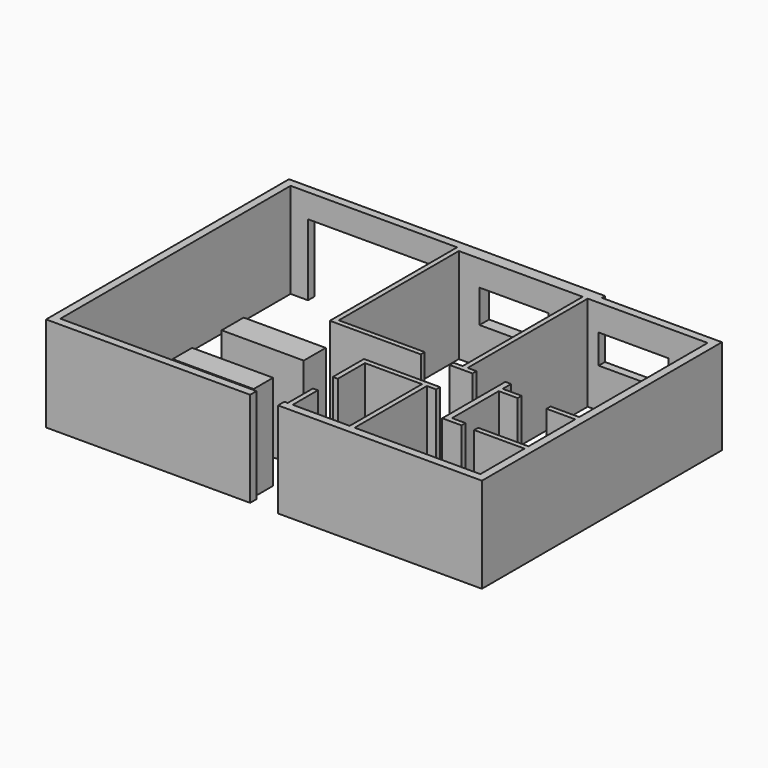
from build123d import *

# Parameters (mm, degrees)
F0_W     = 127
F0_H     = 805.6468963623
F0_W_2   = 735.2284367638
F0_H_2   = 127
F0_W_3   = 1288.3506079674
F1_DEPTH = 2438.4
F2_W     = 3378.2
F2_H     = 1828.8
F3_DEPTH = 203.2
F5_W     = 1791.1667823792
F5_H     = 748.4134435654
F4_W     = 1764.02759552
F4_H     = 844.3640470505
F6_DEPTH = 306.7898195038
F7_W     = 2103.2639741898
F7_H     = 705.6112289429
F8_DEPTH = 2438.4
F7_W_2   = 2076.1250257492
F7_H_2   = 624.1941452026


with BuildPart() as f1:
    # F0 (on Top) → F1 (new body)
    with BuildSketch(Plane.XY):
        Polygon((-1680.8653473854, -10359.281539917), (-1680.8653473854, -2985.0053787231), (2586.3346526146, -2985.0053787231), (2586.3346526146, -7060.7972145081), (4915.788742733, -7060.7972145081), (4915.788742733, -6933.7972145081), (2713.3346526146, -6933.7972145081), (2713.3346526146, -3088.5941982269), (5888.3346526146, -3088.5941982269), (5888.3346526146, -6933.7972145081), (5655.046555233, -6933.7972145081), (5655.046555233, -7060.7972145081), (6241.732643795, -7060.7972145081), (6241.732643795, -6933.3100318909), (6015.3346526146, -6933.3100318909), (6015.3346526146, -3088.5941982269), (9088.7346526146, -3088.5941982269), (9088.7346526146, -7203.3941982269), (9088.7346526146, -7330.3941982269), (9088.7346526146, -8827.8301696777), (9088.7346526146, -8954.8301696777), (9088.7346526146, -10369.3828582764), (5868.0778999329, -10369.3828582764), (5741.0778999329, -10369.3828582764), (4280.7017822266, -10369.3828582764), (4153.7017822266, -10369.3828582764), (4067.268371582, -10369.3828582764), (4067.268371582, -10572.5828582764), (9291.9346526146, -10572.5828582764), (9291.9346526146, -2885.3941982269), (6218.5346526146, -2885.3941982269), (6218.5346526146, -2781.8053787231), (-1884.0653473854, -2781.8053787231), (-1884.0653473854, -10562.481539917), (3344.4576263428, -10562.481539917), (3344.4576263428, -10359.281539917), align=None)
        with Locations((4217.2017822266, -9966.5594100952)):
            Rectangle(F0_W, F0_H)
        Polygon((5741.0778999329, -8055.1072616577), (5741.0778999329, -10369.3828582764), (5868.0778999329, -10369.3828582764), (5868.0778999329, -8055.1072616577), (6103.6233901978, -8055.1072616577), (6103.6233901978, -7928.1072616577), (4153.7017822266, -7928.1072616577), (4153.7017822266, -8926.1178970337), (4280.7017822266, -8926.1178970337), (4280.7017822266, -8055.1072616577), align=None)
        with Locations((8721.1204342327, -7266.8941982269)):
            Rectangle(F0_W_2, F0_H_2)
        with Locations((8444.5593486309, -8891.3301696777)):
            Rectangle(F0_W_3, F0_H_2)
    extrude(amount=F1_DEPTH)

    # F2 (on face) → F3 (cut, through all)
    with BuildSketch(Plane.XZ.offset(2985.0053787231)):
        with Locations((453.7567821503, 914.4)):
            Rectangle(F2_W, F2_H)
    extrude(amount=-F3_DEPTH, mode=Mode.SUBTRACT)

    # F5 (on face) + F4 (on face) → F6 (cut, through all)
    with BuildSketch(Plane.XZ.offset(3088.5941982269)):
        with Locations((7191.2820339203, 1391.4791941643)):
            Rectangle(F5_W, F5_H)
    with BuildSketch(Plane.XZ.offset(3088.5941982269)):
        with Locations((4124.5875358582, 1362.6937270164)):
            Rectangle(F4_W, F4_H)
    extrude(amount=-F6_DEPTH, mode=Mode.SUBTRACT)


with BuildPart() as f1b:
    # F0 (on Top) → F1, piece 2 (new body)
    with BuildSketch(Plane.XY):
        Polygon((7130.1646232605, -6933.3100318909), (6980.999643795, -6933.3100318909), (6980.999643795, -7060.3100318909), (6980.999643795, -8954.8301696777), (7474.0190505981, -8954.8301696777), (7474.0190505981, -8827.8301696777), (7130.1646232605, -8827.8301696777), (7130.1646232605, -7330.3941982269), (7614.2392158508, -7330.3941982269), (7614.2392158508, -7203.3941982269), (7130.1646232605, -7203.3941982269), align=None)
    extrude(amount=F1_DEPTH)


with BuildPart() as f8:
    # F7 (on Top) → F8 (new body)
    with BuildSketch(Plane.XY):
        with Locations((2204.5111060143, -8382.7328681946)):
            Rectangle(F7_W, F7_H)
    extrude(amount=F8_DEPTH)


with BuildPart() as f8b:
    # F7 (on Top) → F8, piece 2 (new body)
    with BuildSketch(Plane.XY):
        with Locations((2204.5112252235, -10011.0669136047)):
            Rectangle(F7_W_2, F7_H_2)
    extrude(amount=F8_DEPTH)


solid = Compound([f1.part, f1b.part, f8.part, f8b.part])
